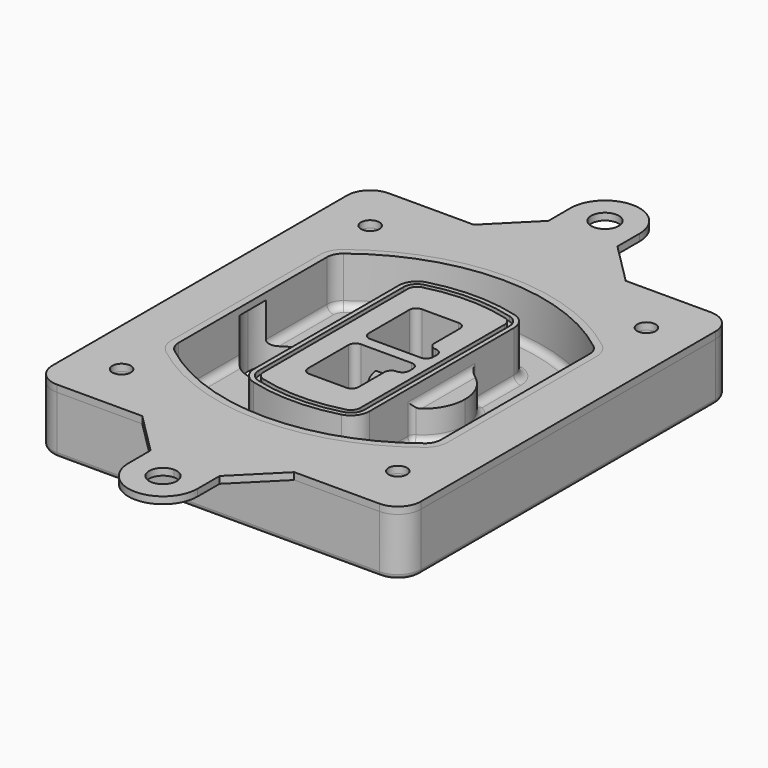
from build123d import *

# Parameters (mm, degrees)
F0_R      = 4
F1_DEPTH  = 25
F2_DEPTH  = 3
F3_DEPTH  = 18
F5_DEPTH  = 21
F6_DEPTH  = 2
F8_DEPTH  = 20
F9_DEPTH  = 16
F10_DEPTH = 25
F7_R      = 6
F7_R_2    = 4
F11_DEPTH = 6
F13_DEPTH = 9
F14_R     = 3
F15_R     = 2
F16_R     = 4
F16_R_2   = 6
F17_DEPTH = 3


with BuildPart() as f1:
    # F0 (on Top) → F1 (new body)
    with BuildSketch(Plane.XY):
        with BuildLine():
            ThreePointArc((14.05, 38.3825811321), (16.9789321881, 31.3115133202), (24.05, 28.3825811321))
            Line((24.05, 28.3825811321), (164.05, 28.3825811321))
            ThreePointArc((164.05, 28.3825811321), (171.1210678119, 31.3115133202), (174.05, 38.3825811321))
            Line((174.05, 38.3825811321), (174.05, 198.3825811321))
            ThreePointArc((174.05, 198.3825811321), (171.1210678119, 205.4536489439), (164.05, 208.3825811321))
            Line((164.05, 208.3825811321), (24.05, 208.3825811321))
            ThreePointArc((24.05, 208.3825811321), (16.9789321881, 205.4536489439), (14.05, 198.3825811321))
            Line((14.05, 198.3825811321), (14.05, 38.3825811321))
        make_face()
        with Locations((34.05, 50.8825811321)):
            Circle(F0_R, mode=Mode.SUBTRACT)
        with Locations((154.05, 50.8825811321)):
            Circle(F0_R, mode=Mode.SUBTRACT)
        with BuildLine():
            ThreePointArc((30.05, 158.6760234193), (31.4679615202, 164.8154295545), (35.4346153846, 169.7112011673))
            ThreePointArc((35.4346153846, 169.7112011673), (94.05, 189.8825811321), (152.6653846154, 169.7112011673))
            ThreePointArc((152.6653846154, 169.7112011673), (156.6320384798, 164.8154295545), (158.05, 158.6760234193))
            Line((158.05, 158.6760234193), (158.05, 78.0891388448))
            ThreePointArc((158.05, 78.0891388448), (156.6320384798, 71.9497327097), (152.6653846154, 67.0539610969))
            ThreePointArc((152.6653846154, 67.0539610969), (94.05, 46.8825811321), (35.4346153846, 67.0539610969))
            ThreePointArc((35.4346153846, 67.0539610969), (31.4679615202, 71.9497327097), (30.05, 78.0891388448))
            Line((30.05, 78.0891388448), (30.05, 158.6760234193))
        make_face(mode=Mode.SUBTRACT)
        with Locations((34.05, 185.8825811321)):
            Circle(F0_R, mode=Mode.SUBTRACT)
        with Locations((154.05, 185.8825811321)):
            Circle(F0_R, mode=Mode.SUBTRACT)
        with BuildLine():
            ThreePointArc((152.6653846154, 169.7112011673), (94.05, 189.8825811321), (35.4346153846, 169.7112011673))
            ThreePointArc((35.4346153846, 169.7112011673), (31.4679615202, 164.8154295545), (30.05, 158.6760234193))
            Line((30.05, 158.6760234193), (30.05, 78.0891388448))
            ThreePointArc((30.05, 78.0891388448), (31.4679615202, 71.9497327097), (35.4346153846, 67.0539610969))
            ThreePointArc((35.4346153846, 67.0539610969), (94.05, 46.8825811321), (152.6653846154, 67.0539610969))
            ThreePointArc((152.6653846154, 67.0539610969), (156.6320384798, 71.9497327097), (158.05, 78.0891388448))
            Line((158.05, 78.0891388448), (158.05, 158.6760234193))
            ThreePointArc((158.05, 158.6760234193), (156.6320384798, 164.8154295545), (152.6653846154, 169.7112011673))
        make_face()
        with BuildLine():
            Line((34.05, 78.0891388448), (34.05, 158.6760234193))
            ThreePointArc((34.05, 158.6760234193), (35.0628296573, 163.0613135158), (37.8961538462, 166.5582932393))
            ThreePointArc((37.8961538462, 166.5582932393), (94.05, 185.8825811321), (150.2038461538, 166.5582932393))
            ThreePointArc((150.2038461538, 166.5582932393), (153.0371703427, 163.0613135158), (154.05, 158.6760234193))
            Line((154.05, 158.6760234193), (154.05, 78.0891388448))
            ThreePointArc((154.05, 78.0891388448), (153.0371703427, 73.7038487483), (150.2038461538, 70.2068690248))
            ThreePointArc((150.2038461538, 70.2068690248), (94.05, 50.8825811321), (37.8961538462, 70.2068690248))
            ThreePointArc((37.8961538462, 70.2068690248), (35.0628296573, 73.7038487483), (34.05, 78.0891388448))
        make_face(mode=Mode.SUBTRACT)
        with BuildLine():
            ThreePointArc((37.8961538462, 166.5582932393), (35.0628296573, 163.0613135158), (34.05, 158.6760234193))
            Line((34.05, 158.6760234193), (34.05, 78.0891388448))
            ThreePointArc((34.05, 78.0891388448), (35.0628296573, 73.7038487483), (37.8961538462, 70.2068690248))
            ThreePointArc((37.8961538462, 70.2068690248), (94.05, 50.8825811321), (150.2038461538, 70.2068690248))
            ThreePointArc((150.2038461538, 70.2068690248), (153.0371703427, 73.7038487483), (154.05, 78.0891388448))
            Line((154.05, 78.0891388448), (154.05, 158.6760234193))
            ThreePointArc((154.05, 158.6760234193), (153.0371703427, 163.0613135158), (150.2038461538, 166.5582932393))
            ThreePointArc((150.2038461538, 166.5582932393), (94.05, 185.8825811321), (37.8961538462, 166.5582932393))
        make_face()
        with BuildLine():
            ThreePointArc((148.3576923077, 164.1936122933), (150.3410192399, 161.7457264869), (151.05, 158.6760234193))
            Line((151.05, 158.6760234193), (151.05, 78.0891388448))
            ThreePointArc((151.05, 78.0891388448), (150.3410192399, 75.0194357772), (148.3576923077, 72.5715499708))
            ThreePointArc((148.3576923077, 72.5715499708), (94.05, 53.8825811321), (39.7423076923, 72.5715499708))
            ThreePointArc((39.7423076923, 72.5715499708), (37.7589807601, 75.0194357772), (37.05, 78.0891388448))
            Line((37.05, 78.0891388448), (37.05, 158.6760234193))
            ThreePointArc((37.05, 158.6760234193), (37.7589807601, 161.7457264869), (39.7423076923, 164.1936122933))
            ThreePointArc((39.7423076923, 164.1936122933), (94.05, 182.8825811321), (148.3576923077, 164.1936122933))
        make_face(mode=Mode.SUBTRACT)
        with BuildLine():
            Line((151.05, 78.0891388448), (151.05, 158.6760234193))
            ThreePointArc((151.05, 158.6760234193), (150.3410192399, 161.7457264869), (148.3576923077, 164.1936122933))
            ThreePointArc((148.3576923077, 164.1936122933), (94.05, 182.8825811321), (39.7423076923, 164.1936122933))
            ThreePointArc((39.7423076923, 164.1936122933), (37.7589807601, 161.7457264869), (37.05, 158.6760234193))
            Line((37.05, 158.6760234193), (37.05, 78.0891388448))
            ThreePointArc((37.05, 78.0891388448), (37.7589807601, 75.0194357772), (39.7423076923, 72.5715499708))
            ThreePointArc((39.7423076923, 72.5715499708), (94.05, 53.8825811321), (148.3576923077, 72.5715499708))
            ThreePointArc((148.3576923077, 72.5715499708), (150.3410192399, 75.0194357772), (151.05, 78.0891388448))
        make_face()
    extrude(amount=-F1_DEPTH)

    # F0 (on Top) → F2 (join)
    with BuildSketch(Plane.XY):
        with BuildLine():
            ThreePointArc((37.8961538462, 166.5582932393), (35.0628296573, 163.0613135158), (34.05, 158.6760234193))
            Line((34.05, 158.6760234193), (34.05, 78.0891388448))
            ThreePointArc((34.05, 78.0891388448), (35.0628296573, 73.7038487483), (37.8961538462, 70.2068690248))
            ThreePointArc((37.8961538462, 70.2068690248), (94.05, 50.8825811321), (150.2038461538, 70.2068690248))
            ThreePointArc((150.2038461538, 70.2068690248), (153.0371703427, 73.7038487483), (154.05, 78.0891388448))
            Line((154.05, 78.0891388448), (154.05, 158.6760234193))
            ThreePointArc((154.05, 158.6760234193), (153.0371703427, 163.0613135158), (150.2038461538, 166.5582932393))
            ThreePointArc((150.2038461538, 166.5582932393), (94.05, 185.8825811321), (37.8961538462, 166.5582932393))
        make_face()
        with BuildLine():
            ThreePointArc((148.3576923077, 164.1936122933), (150.3410192399, 161.7457264869), (151.05, 158.6760234193))
            Line((151.05, 158.6760234193), (151.05, 78.0891388448))
            ThreePointArc((151.05, 78.0891388448), (150.3410192399, 75.0194357772), (148.3576923077, 72.5715499708))
            ThreePointArc((148.3576923077, 72.5715499708), (94.05, 53.8825811321), (39.7423076923, 72.5715499708))
            ThreePointArc((39.7423076923, 72.5715499708), (37.7589807601, 75.0194357772), (37.05, 78.0891388448))
            Line((37.05, 78.0891388448), (37.05, 158.6760234193))
            ThreePointArc((37.05, 158.6760234193), (37.7589807601, 161.7457264869), (39.7423076923, 164.1936122933))
            ThreePointArc((39.7423076923, 164.1936122933), (94.05, 182.8825811321), (148.3576923077, 164.1936122933))
        make_face(mode=Mode.SUBTRACT)
    extrude(amount=F2_DEPTH)

    # F0 (on Top) → F3 (cut)
    with BuildSketch(Plane.XY):
        with BuildLine():
            Line((151.05, 78.0891388448), (151.05, 158.6760234193))
            ThreePointArc((151.05, 158.6760234193), (150.3410192399, 161.7457264869), (148.3576923077, 164.1936122933))
            ThreePointArc((148.3576923077, 164.1936122933), (94.05, 182.8825811321), (39.7423076923, 164.1936122933))
            ThreePointArc((39.7423076923, 164.1936122933), (37.7589807601, 161.7457264869), (37.05, 158.6760234193))
            Line((37.05, 158.6760234193), (37.05, 78.0891388448))
            ThreePointArc((37.05, 78.0891388448), (37.7589807601, 75.0194357772), (39.7423076923, 72.5715499708))
            ThreePointArc((39.7423076923, 72.5715499708), (94.05, 53.8825811321), (148.3576923077, 72.5715499708))
            ThreePointArc((148.3576923077, 72.5715499708), (150.3410192399, 75.0194357772), (151.05, 78.0891388448))
        make_face()
    extrude(amount=-F3_DEPTH, mode=Mode.SUBTRACT)

    # F4 (on face) → F5 (join, through all)
    with BuildSketch(Plane.XY.offset(3)):
        with BuildLine():
            ThreePointArc((69.05, 79.13605345), (70.6988454002, 74.2716074128), (74.9657088123, 71.4123412437))
            ThreePointArc((74.9657088123, 71.4123412437), (94.05, 68.8825811321), (113.1342911877, 71.4123412437))
            ThreePointArc((113.1342911877, 71.4123412437), (117.4011545998, 74.2716074128), (119.05, 79.13605345))
            Line((119.05, 79.13605345), (119.05, 157.6291088141))
            ThreePointArc((119.05, 157.6291088141), (117.4011545998, 162.4935548514), (113.1342911877, 165.3528210204))
            ThreePointArc((113.1342911877, 165.3528210204), (94.05, 167.8825811321), (74.9657088123, 165.3528210204))
            ThreePointArc((74.9657088123, 165.3528210204), (70.6988454002, 162.4935548514), (69.05, 157.6291088141))
            Line((69.05, 157.6291088141), (69.05, 79.13605345))
        make_face()
        with BuildLine():
            ThreePointArc((112.6132183908, 163.4218929688), (115.8133659499, 161.2774433421), (117.05, 157.6291088141))
            Line((117.05, 157.6291088141), (117.05, 79.13605345))
            ThreePointArc((117.05, 79.13605345), (115.8133659499, 75.4877189221), (112.6132183908, 73.3432692953))
            ThreePointArc((112.6132183908, 73.3432692953), (94.05, 70.8825811321), (75.4867816092, 73.3432692953))
            ThreePointArc((75.4867816092, 73.3432692953), (72.2866340501, 75.4877189221), (71.05, 79.13605345))
            Line((71.05, 79.13605345), (71.05, 157.6291088141))
            ThreePointArc((71.05, 157.6291088141), (72.2866340501, 161.2774433421), (75.4867816092, 163.4218929688))
            ThreePointArc((75.4867816092, 163.4218929688), (94.05, 165.8825811321), (112.6132183908, 163.4218929688))
        make_face(mode=Mode.SUBTRACT)
        with BuildLine():
            Line((117.05, 79.13605345), (117.05, 157.6291088141))
            ThreePointArc((117.05, 157.6291088141), (115.8133659499, 161.2774433421), (112.6132183908, 163.4218929688))
            ThreePointArc((112.6132183908, 163.4218929688), (94.05, 165.8825811321), (75.4867816092, 163.4218929688))
            ThreePointArc((75.4867816092, 163.4218929688), (72.2866340501, 161.2774433421), (71.05, 157.6291088141))
            Line((71.05, 157.6291088141), (71.05, 79.13605345))
            ThreePointArc((71.05, 79.13605345), (72.2866340501, 75.4877189221), (75.4867816092, 73.3432692953))
            ThreePointArc((75.4867816092, 73.3432692953), (94.05, 70.8825811321), (112.6132183908, 73.3432692953))
            ThreePointArc((112.6132183908, 73.3432692953), (115.8133659499, 75.4877189221), (117.05, 79.13605345))
        make_face()
        with BuildLine():
            ThreePointArc((112.0921455939, 161.4909649173), (114.2255772999, 160.0613318328), (115.05, 157.6291088141))
            Line((115.05, 157.6291088141), (115.05, 79.13605345))
            ThreePointArc((115.05, 79.13605345), (114.2255772999, 76.7038304314), (112.0921455939, 75.2741973469))
            ThreePointArc((112.0921455939, 75.2741973469), (94.05, 72.8825811321), (76.0078544061, 75.2741973469))
            ThreePointArc((76.0078544061, 75.2741973469), (73.8744227001, 76.7038304314), (73.05, 79.13605345))
            Line((73.05, 79.13605345), (73.05, 157.6291088141))
            ThreePointArc((73.05, 157.6291088141), (73.8744227001, 160.0613318328), (76.0078544061, 161.4909649173))
            ThreePointArc((76.0078544061, 161.4909649173), (94.05, 163.8825811321), (112.0921455939, 161.4909649173))
        make_face(mode=Mode.SUBTRACT)
        with BuildLine():
            Line((115.05, 79.13605345), (115.05, 157.6291088141))
            ThreePointArc((115.05, 157.6291088141), (114.2255772999, 160.0613318328), (112.0921455939, 161.4909649173))
            ThreePointArc((112.0921455939, 161.4909649173), (94.05, 163.8825811321), (76.0078544061, 161.4909649173))
            ThreePointArc((76.0078544061, 161.4909649173), (73.8744227001, 160.0613318328), (73.05, 157.6291088141))
            Line((73.05, 157.6291088141), (73.05, 79.13605345))
            ThreePointArc((73.05, 79.13605345), (73.8744227001, 76.7038304314), (76.0078544061, 75.2741973469))
            ThreePointArc((76.0078544061, 75.2741973469), (94.05, 72.8825811321), (112.0921455939, 75.2741973469))
            ThreePointArc((112.0921455939, 75.2741973469), (114.2255772999, 76.7038304314), (115.05, 79.13605345))
        make_face()
        with BuildLine():
            Line((86.05, 115.8825811321), (108.05, 115.8825811321))
            ThreePointArc((108.05, 115.8825811321), (110.1713203436, 115.0039014756), (111.05, 112.8825811321))
            Line((111.05, 112.8825811321), (111.05, 110.8825811321))
            ThreePointArc((111.05, 110.8825811321), (110.1713203436, 108.7612607885), (108.05, 107.8825811321))
            ThreePointArc((108.05, 107.8825811321), (105.9286796564, 107.0039014756), (105.05, 104.8825811321))
            Line((105.05, 104.8825811321), (105.05, 90.8825811321))
            ThreePointArc((105.05, 90.8825811321), (104.1713203436, 88.7612607885), (102.05, 87.8825811321))
            Line((102.05, 87.8825811321), (86.05, 87.8825811321))
            ThreePointArc((86.05, 87.8825811321), (83.9286796564, 88.7612607885), (83.05, 90.8825811321))
            Line((83.05, 90.8825811321), (83.05, 112.8825811321))
            ThreePointArc((83.05, 112.8825811321), (83.9286796564, 115.0039014756), (86.05, 115.8825811321))
        make_face(mode=Mode.SUBTRACT)
        with BuildLine():
            ThreePointArc((86.05, 120.8825811321), (83.9286796564, 121.7612607885), (83.05, 123.8825811321))
            Line((83.05, 123.8825811321), (83.05, 145.8825811321))
            ThreePointArc((83.05, 145.8825811321), (83.9286796564, 148.0039014756), (86.05, 148.8825811321))
            Line((86.05, 148.8825811321), (102.05, 148.8825811321))
            ThreePointArc((102.05, 148.8825811321), (104.1713203436, 148.0039014756), (105.05, 145.8825811321))
            Line((105.05, 145.8825811321), (105.05, 131.8825811321))
            ThreePointArc((105.05, 131.8825811321), (105.9286796564, 129.7612607885), (108.05, 128.8825811321))
            ThreePointArc((108.05, 128.8825811321), (110.1713203436, 128.0039014756), (111.05, 125.8825811321))
            Line((111.05, 125.8825811321), (111.05, 123.8825811321))
            ThreePointArc((111.05, 123.8825811321), (110.1713203436, 121.7612607885), (108.05, 120.8825811321))
            Line((108.05, 120.8825811321), (86.05, 120.8825811321))
        make_face(mode=Mode.SUBTRACT)
    extrude(amount=-F5_DEPTH)

    # F4 (on face) → F6 (cut)
    with BuildSketch(Plane.XY.offset(3)):
        with BuildLine():
            Line((117.05, 79.13605345), (117.05, 157.6291088141))
            ThreePointArc((117.05, 157.6291088141), (115.8133659499, 161.2774433421), (112.6132183908, 163.4218929688))
            ThreePointArc((112.6132183908, 163.4218929688), (94.05, 165.8825811321), (75.4867816092, 163.4218929688))
            ThreePointArc((75.4867816092, 163.4218929688), (72.2866340501, 161.2774433421), (71.05, 157.6291088141))
            Line((71.05, 157.6291088141), (71.05, 79.13605345))
            ThreePointArc((71.05, 79.13605345), (72.2866340501, 75.4877189221), (75.4867816092, 73.3432692953))
            ThreePointArc((75.4867816092, 73.3432692953), (94.05, 70.8825811321), (112.6132183908, 73.3432692953))
            ThreePointArc((112.6132183908, 73.3432692953), (115.8133659499, 75.4877189221), (117.05, 79.13605345))
        make_face()
        with BuildLine():
            ThreePointArc((112.0921455939, 161.4909649173), (114.2255772999, 160.0613318328), (115.05, 157.6291088141))
            Line((115.05, 157.6291088141), (115.05, 79.13605345))
            ThreePointArc((115.05, 79.13605345), (114.2255772999, 76.7038304314), (112.0921455939, 75.2741973469))
            ThreePointArc((112.0921455939, 75.2741973469), (94.05, 72.8825811321), (76.0078544061, 75.2741973469))
            ThreePointArc((76.0078544061, 75.2741973469), (73.8744227001, 76.7038304314), (73.05, 79.13605345))
            Line((73.05, 79.13605345), (73.05, 157.6291088141))
            ThreePointArc((73.05, 157.6291088141), (73.8744227001, 160.0613318328), (76.0078544061, 161.4909649173))
            ThreePointArc((76.0078544061, 161.4909649173), (94.05, 163.8825811321), (112.0921455939, 161.4909649173))
        make_face(mode=Mode.SUBTRACT)
    extrude(amount=-F6_DEPTH, mode=Mode.SUBTRACT)

    # F7 (on face) → F8 (join)
    with BuildSketch(Plane(origin=(0, 0, -25), x_dir=(1, 0, 0), z_dir=(0, 0, -1))):
        with BuildLine():
            ThreePointArc((97.33842436, -118.3825811321), (110.8067035675, -104.9143019245), (124.274982775, -118.3825811321))
            Line((124.274982775, -118.3825811321), (129.274982775, -118.3825811321))
            ThreePointArc((129.274982775, -118.3825811321), (110.8067035675, -99.9143019245), (92.33842436, -118.3825811321))
            Line((92.33842436, -118.3825811321), (97.33842436, -118.3825811321))
        make_face()
        with BuildLine():
            Line((97.33842436, -118.3825811321), (124.274982775, -118.3825811321))
            ThreePointArc((124.274982775, -118.3825811321), (110.8067035675, -104.9143019245), (97.33842436, -118.3825811321))
        make_face()
        with BuildLine():
            ThreePointArc((97.33842436, -118.3825811321), (110.8067035675, -131.8508603396), (124.274982775, -118.3825811321))
            Line((124.274982775, -118.3825811321), (97.33842436, -118.3825811321))
        make_face()
        with BuildLine():
            Line((129.274982775, -118.3825811321), (124.274982775, -118.3825811321))
            ThreePointArc((124.274982775, -118.3825811321), (110.8067035675, -131.8508603396), (97.33842436, -118.3825811321))
            Line((97.33842436, -118.3825811321), (92.33842436, -118.3825811321))
            ThreePointArc((92.33842436, -118.3825811321), (110.8067035675, -136.8508603396), (129.274982775, -118.3825811321))
        make_face()
    extrude(amount=-F8_DEPTH)

    # F7 (on face) → F9 (cut)
    with BuildSketch(Plane(origin=(0, 0, -25), x_dir=(1, 0, 0), z_dir=(0, 0, -1))):
        with BuildLine():
            Line((97.33842436, -118.3825811321), (124.274982775, -118.3825811321))
            ThreePointArc((124.274982775, -118.3825811321), (110.8067035675, -104.9143019245), (97.33842436, -118.3825811321))
        make_face()
        with BuildLine():
            ThreePointArc((97.33842436, -118.3825811321), (110.8067035675, -131.8508603396), (124.274982775, -118.3825811321))
            Line((124.274982775, -118.3825811321), (97.33842436, -118.3825811321))
        make_face()
    extrude(amount=-F9_DEPTH, mode=Mode.SUBTRACT)

    # F7 (on face) → F10 (cut)
    with BuildSketch(Plane(origin=(0, 0, -25), x_dir=(1, 0, 0), z_dir=(0, 0, -1))):
        with BuildLine():
            Line((35.0181770675, -118.3825811321), (61.9547354825, -118.3825811321))
            ThreePointArc((61.9547354825, -118.3825811321), (48.486456275, -104.9143019245), (35.0181770675, -118.3825811321))
        make_face()
        with BuildLine():
            ThreePointArc((35.0181770675, -118.3825811321), (48.486456275, -131.8508603396), (61.9547354825, -118.3825811321))
            Line((61.9547354825, -118.3825811321), (35.0181770675, -118.3825811321))
        make_face()
    extrude(amount=-F10_DEPTH, mode=Mode.SUBTRACT)

    # F7 (on face) → F11 (cut)
    with BuildSketch(Plane(origin=(0, 0, -25), x_dir=(1, 0, 0), z_dir=(0, 0, -1))):
        with Locations((154.05, -185.8825811321)):
            Circle(F7_R)
        with Locations((154.05, -185.8825811321)):
            Circle(F7_R_2, mode=Mode.SUBTRACT)
        with Locations((154.05, -185.8825811321)):
            Circle(F7_R)
        with Locations((154.05, -185.8825811321)):
            Circle(F7_R_2, mode=Mode.SUBTRACT)
        with Locations((34.05, -185.8825811321)):
            Circle(F7_R)
        with Locations((34.05, -185.8825811321)):
            Circle(F7_R_2, mode=Mode.SUBTRACT)
        with Locations((34.05, -185.8825811321)):
            Circle(F7_R)
        with Locations((34.05, -185.8825811321)):
            Circle(F7_R_2, mode=Mode.SUBTRACT)
        with Locations((34.05, -50.8825811321)):
            Circle(F7_R)
        with Locations((34.05, -50.8825811321)):
            Circle(F7_R_2, mode=Mode.SUBTRACT)
        with Locations((34.05, -50.8825811321)):
            Circle(F7_R)
        with Locations((34.05, -50.8825811321)):
            Circle(F7_R_2, mode=Mode.SUBTRACT)
        with Locations((154.05, -50.8825811321)):
            Circle(F7_R)
        with Locations((154.05, -50.8825811321)):
            Circle(F7_R_2, mode=Mode.SUBTRACT)
        with Locations((154.05, -50.8825811321)):
            Circle(F7_R)
        with Locations((154.05, -50.8825811321)):
            Circle(F7_R_2, mode=Mode.SUBTRACT)
    extrude(amount=-F11_DEPTH, mode=Mode.SUBTRACT)

    # F12 (on face) → F13 (cut, through all)
    with BuildSketch(Plane(origin=(0, 0, -9), x_dir=(1, 0, 0), z_dir=(0, 0, -1))):
        with BuildLine():
            Line((105.05, -104.8825811321), (105.05, -100.8344273567))
            ThreePointArc((105.05, -100.8344273567), (96.6196536419, -106.5586667507), (92.5084157545, -115.8825811321))
            Line((92.5084157545, -115.8825811321), (97.5724848595, -115.8825811321))
            ThreePointArc((97.5724848595, -115.8825811321), (100.2357188154, -110.0369939039), (105.3036447004, -106.0898642673))
            ThreePointArc((105.3036447004, -106.0898642673), (105.1140958889, -105.4994012441), (105.05, -104.8825811321))
        make_face()
        with BuildLine():
            ThreePointArc((105.3036447004, -130.6752979968), (100.2357188154, -126.7281683602), (97.5724848595, -120.8825811321))
            Line((97.5724848595, -120.8825811321), (92.5084157545, -120.8825811321))
            ThreePointArc((92.5084157545, -120.8825811321), (96.6196536419, -130.2064955134), (105.05, -135.9307349074))
            Line((105.05, -135.9307349074), (105.05, -131.8825811321))
            ThreePointArc((105.05, -131.8825811321), (105.1140958889, -131.26576102), (105.3036447004, -130.6752979968))
        make_face()
        with BuildLine():
            ThreePointArc((105.3036447004, -106.0898642673), (100.2357188154, -110.0369939039), (97.5724848595, -115.8825811321))
            Line((97.5724848595, -115.8825811321), (108.05, -115.8825811321))
            ThreePointArc((108.05, -115.8825811321), (110.1713203436, -115.0039014756), (111.05, -112.8825811321))
            Line((111.05, -112.8825811321), (111.05, -110.8825811321))
            ThreePointArc((111.05, -110.8825811321), (110.1713203436, -108.7612607885), (108.05, -107.8825811321))
            ThreePointArc((108.05, -107.8825811321), (106.4101599782, -107.3947365219), (105.3036447004, -106.0898642673))
        make_face()
        with BuildLine():
            Line((108.05, -120.8825811321), (97.5724848595, -120.8825811321))
            ThreePointArc((97.5724848595, -120.8825811321), (100.2357188154, -126.7281683602), (105.3036447004, -130.6752979968))
            ThreePointArc((105.3036447004, -130.6752979968), (106.4101599782, -129.3704257422), (108.05, -128.8825811321))
            ThreePointArc((108.05, -128.8825811321), (110.1713203436, -128.0039014756), (111.05, -125.8825811321))
            Line((111.05, -125.8825811321), (111.05, -123.8825811321))
            ThreePointArc((111.05, -123.8825811321), (110.1713203436, -121.7612607885), (108.05, -120.8825811321))
        make_face()
    extrude(amount=F13_DEPTH, mode=Mode.SUBTRACT)

    # F14
    f14_edges = [f1.edges().sort_by_distance(p)[0] for p in [
        (37.05, 94.679105, -18),
        (37.05, 142.086057, -18),
        (119.05, 118.382581, -5),
        (119.05, 134.909087, -11.5),
        (119.05, 101.856075, -11.5),
        (119.05, 90.496064, -18),
        (129.274983, 118.382581, -18),
    ]]
    fillet(f14_edges, radius=F14_R)

    # F15
    f15_edges = [f1.edges().sort_by_distance(p)[0] for p in [
        (94.05, 28.382581, -25),
    ]]
    fillet(f15_edges, radius=F15_R)


with BuildPart() as f17:
    # F16 (on face) → F17 (new body)
    with BuildSketch(Plane.XY):
        with BuildLine():
            Line((94.05, 208.3825811321), (61.05, 208.3825811321))
            Line((61.05, 208.3825811321), (24.05, 208.3825811321))
            ThreePointArc((24.05, 208.3825811321), (16.9789321881, 205.4536489439), (14.05, 198.3825811321))
            Line((14.05, 198.3825811321), (14.05, 118.3825811321))
            Line((14.05, 118.3825811321), (34.05, 118.3825811321))
            Line((34.05, 118.3825811321), (34.05, 158.6760234193))
            ThreePointArc((34.05, 158.6760234193), (35.0628296573, 163.0613135158), (37.8961538462, 166.5582932393))
            ThreePointArc((37.8961538462, 166.5582932393), (94.05, 185.8825811321), (150.2038461538, 166.5582932393))
            ThreePointArc((150.2038461538, 166.5582932393), (153.0371703427, 163.0613135158), (154.05, 158.6760234193))
            Line((154.05, 158.6760234193), (154.05, 118.3825811321))
            Line((154.05, 118.3825811321), (174.05, 118.3825811321))
            Line((174.05, 118.3825811321), (174.05, 198.3825811321))
            ThreePointArc((174.05, 198.3825811321), (171.1210678119, 205.4536489439), (164.05, 208.3825811321))
            Line((164.05, 208.3825811321), (127.05, 208.3825811321))
            Line((127.05, 208.3825811321), (94.05, 208.3825811321))
        make_face()
        with Locations((34.05, 185.8825811321)):
            Circle(F16_R, mode=Mode.SUBTRACT)
        with Locations((154.05, 185.8825811321)):
            Circle(F16_R, mode=Mode.SUBTRACT)
        with BuildLine():
            Line((34.05, 118.3825811321), (14.05, 118.3825811321))
            Line((14.05, 118.3825811321), (14.05, 38.3825811321))
            ThreePointArc((14.05, 38.3825811321), (16.9789321881, 31.3115133202), (24.05, 28.3825811321))
            Line((24.05, 28.3825811321), (61.05, 28.3825811321))
            Line((61.05, 28.3825811321), (94.05, 28.3825811321))
            Line((94.05, 28.3825811321), (127.05, 28.3825811321))
            Line((127.05, 28.3825811321), (164.05, 28.3825811321))
            ThreePointArc((164.05, 28.3825811321), (171.1210678119, 31.3115133202), (174.05, 38.3825811321))
            Line((174.05, 38.3825811321), (174.05, 118.3825811321))
            Line((174.05, 118.3825811321), (154.05, 118.3825811321))
            Line((154.05, 118.3825811321), (154.05, 78.0891388448))
            ThreePointArc((154.05, 78.0891388448), (153.0371703427, 73.7038487483), (150.2038461538, 70.2068690248))
            ThreePointArc((150.2038461538, 70.2068690248), (94.05, 50.8825811321), (37.8961538462, 70.2068690248))
            ThreePointArc((37.8961538462, 70.2068690248), (35.0628296573, 73.7038487483), (34.05, 78.0891388448))
            Line((34.05, 78.0891388448), (34.05, 118.3825811321))
        make_face()
        with Locations((34.05, 50.8825811321)):
            Circle(F16_R, mode=Mode.SUBTRACT)
        with Locations((154.05, 50.8825811321)):
            Circle(F16_R, mode=Mode.SUBTRACT)
        with BuildLine():
            Line((79.05, 226.3825811321), (61.05, 208.3825811321))
            Line((61.05, 208.3825811321), (94.05, 208.3825811321))
            Line((94.05, 208.3825811321), (127.05, 208.3825811321))
            Line((127.05, 208.3825811321), (109.05, 226.3825811321))
            Line((109.05, 226.3825811321), (109.05, 238.3825811321))
            ThreePointArc((109.05, 238.3825811321), (94.05, 253.3825811321), (79.05, 238.3825811321))
            Line((79.05, 238.3825811321), (79.05, 226.3825811321))
        make_face()
        with Locations((94.05, 238.3825811321)):
            Circle(F16_R_2, mode=Mode.SUBTRACT)
        with BuildLine():
            Line((94.05, 28.3825811321), (61.05, 28.3825811321))
            Line((61.05, 28.3825811321), (79.05, 10.3825811321))
            Line((79.05, 10.3825811321), (79.05, -1.6174188679))
            ThreePointArc((79.05, -1.6174188679), (94.05, -16.6174188679), (109.05, -1.6174188679))
            Line((109.05, -1.6174188679), (109.05, 10.3825811321))
            Line((109.05, 10.3825811321), (127.05, 28.3825811321))
            Line((127.05, 28.3825811321), (94.05, 28.3825811321))
        make_face()
        with BuildLine():
            ThreePointArc((100.05, -1.6174188679), (89.8073593129, -5.8600595551), (94.05, 4.3825811321))
            ThreePointArc((94.05, 4.3825811321), (98.2926406871, 2.6252218192), (100.05, -1.6174188679))
        make_face(mode=Mode.SUBTRACT)
    extrude(amount=F17_DEPTH)


solid = Compound([f1.part, f17.part])
